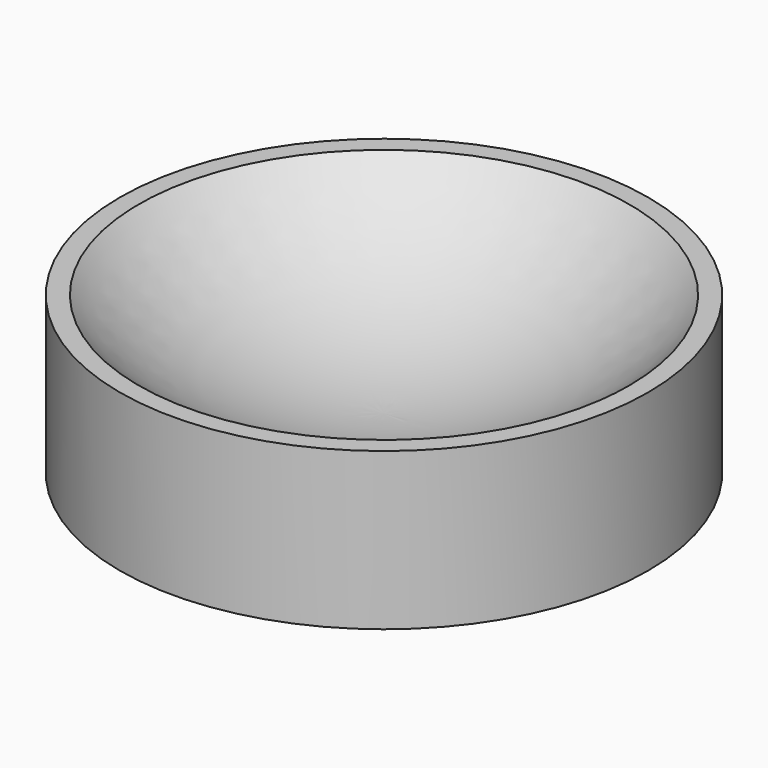
from build123d import *

# Parameters (mm, degrees)
F0_R     = 5.05
F1_DEPTH = 3


with BuildPart() as f1:
    # F0 (on Top) → F1 (new body)
    with BuildSketch(Plane.XY):
        Circle(F0_R)
    extrude(amount=F1_DEPTH)

    # F2 (on Front) → F3 (revolve, cut)
    with BuildSketch(Plane.XZ):
        with BuildLine():
            ThreePointArc((0, 1), (4.596194, 2.903806), (6.5, 7.5))
            ThreePointArc((6.5, 7.5), (4.596194, 12.096194), (0, 14))
            Line((0, 14), (0, 1))
        make_face()
    revolve(axis=Axis((0, 0, 7.5), (0, 0, -1)), mode=Mode.SUBTRACT)


solid = f1.part
